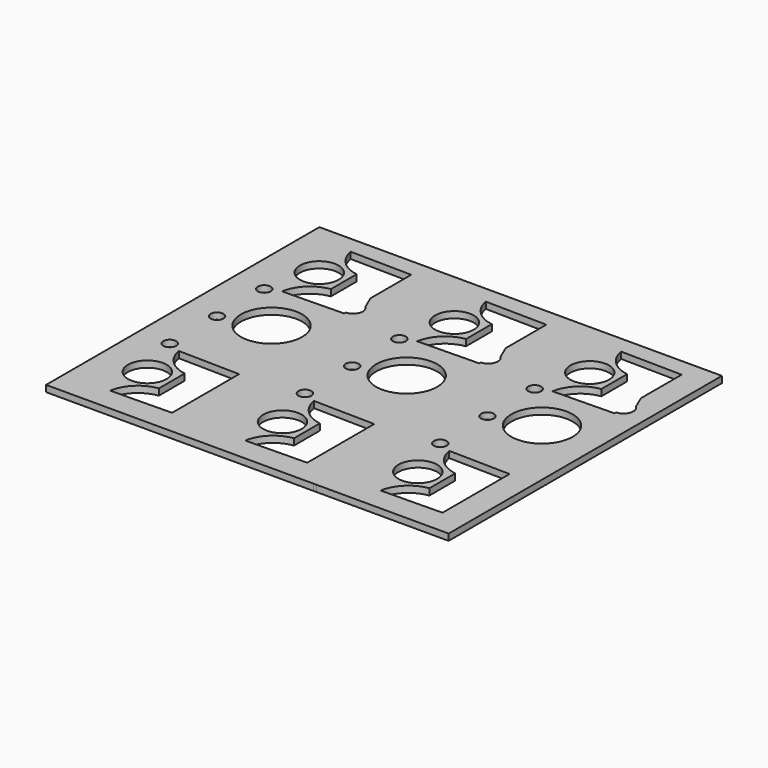
from build123d import *

# Parameters (mm, degrees)
F0_W     = 41
F0_H     = 106
F0_R     = 6
F0_R_2   = 2
F0_R_3   = 9.5
F0_W_2   = 0.927996
F1_DEPTH = 2


with BuildPart() as f1:
    # F0 (on Top) → F1 (new body)
    with BuildSketch(Plane.XY):
        with Locations((-42.758821, -4.311392)):
            Rectangle(F0_W, F0_H)
        with Locations((-48.35481, -36.657964)):
            Circle(F0_R, mode=Mode.SUBTRACT)
        with BuildLine():
            ThreePointArc((-40.758821, -31.657964), (-46.365975, -28.882496), (-49.258821, -23.334988))
            Line((-49.258821, -23.334988), (-30.258821, -23.692439))
            Line((-30.258821, -23.692439), (-30.258821, -49.692439))
            Line((-30.258821, -49.692439), (-49.258821, -49.98094))
            ThreePointArc((-49.258821, -49.98094), (-46.365975, -44.433432), (-40.758821, -41.657964))
            Line((-40.758821, -41.657964), (-40.758821, -31.657964))
        make_face(mode=Mode.SUBTRACT)
        with Locations((-53.414003, -21.625079)):
            Circle(F0_R_2, mode=Mode.SUBTRACT)
        with Locations((-53.414003, -3.311392)):
            Circle(F0_R_2, mode=Mode.SUBTRACT)
        with Locations((-40.008821, 1.088608)):
            Circle(F0_R_3, mode=Mode.SUBTRACT)
        with Locations((-53.414003, 15.002295)):
            Circle(F0_R_2, mode=Mode.SUBTRACT)
        with Locations((-48.35481, 30.03518)):
            Circle(F0_R, mode=Mode.SUBTRACT)
        with BuildLine():
            ThreePointArc((-40.758821, 35.03518), (-46.365975, 37.810648), (-49.258821, 43.358156))
            Line((-49.258821, 43.358156), (-30.258821, 43.069655))
            Line((-30.258821, 43.069655), (-30.258821, 27.304233))
            Line((-30.258821, 27.304233), (-28.396592, 22.957894))
            ThreePointArc((-28.396592, 22.957894), (-27.630572, 21.936268), (-27.358821, 20.688608))
            ThreePointArc((-27.358821, 20.688608), (-28.202435, 18.602943), (-30.258821, 17.690275))
            Line((-30.258821, 17.690275), (-30.258821, 17.069655))
            Line((-30.258821, 17.069655), (-49.258821, 16.712204))
            ThreePointArc((-49.258821, 16.712204), (-46.365975, 22.259712), (-40.758821, 25.03518))
            Line((-40.758821, 25.03518), (-40.758821, 35.03518))
        make_face(mode=Mode.SUBTRACT)
        with Locations((-21.794823, -4.311392)):
            Rectangle(F0_W_2, F0_H)
        with Locations((-0.830825, -4.311392)):
            Rectangle(F0_W, F0_H)
        with Locations((-6.426815, -36.657964)):
            Circle(F0_R, mode=Mode.SUBTRACT)
        with Locations((-11.486007, -21.625079)):
            Circle(F0_R_2, mode=Mode.SUBTRACT)
        with BuildLine():
            ThreePointArc((1.169175, -31.657964), (-4.437979, -28.882496), (-7.330825, -23.334988))
            Line((-7.330825, -23.334988), (11.669175, -23.692439))
            Line((11.669175, -23.692439), (11.669175, -49.692439))
            Line((11.669175, -49.692439), (-7.330825, -49.98094))
            ThreePointArc((-7.330825, -49.98094), (-4.437979, -44.433432), (1.169175, -41.657964))
            Line((1.169175, -41.657964), (1.169175, -31.657964))
        make_face(mode=Mode.SUBTRACT)
        with Locations((-11.486007, -3.311392)):
            Circle(F0_R_2, mode=Mode.SUBTRACT)
        with Locations((-11.486007, 15.002295)):
            Circle(F0_R_2, mode=Mode.SUBTRACT)
        with Locations((-6.426815, 30.03518)):
            Circle(F0_R, mode=Mode.SUBTRACT)
        with Locations((1.919175, 1.088608)):
            Circle(F0_R_3, mode=Mode.SUBTRACT)
        with BuildLine():
            ThreePointArc((1.169175, 35.03518), (-4.437979, 37.810648), (-7.330825, 43.358156))
            Line((-7.330825, 43.358156), (11.669175, 43.069655))
            Line((11.669175, 43.069655), (11.669175, 27.304233))
            Line((11.669175, 27.304233), (13.531403, 22.957894))
            ThreePointArc((13.531403, 22.957894), (14.297424, 21.936268), (14.569175, 20.688608))
            ThreePointArc((14.569175, 20.688608), (13.725561, 18.602943), (11.669175, 17.690275))
            Line((11.669175, 17.690275), (11.669175, 17.069655))
            Line((11.669175, 17.069655), (-7.330825, 16.712204))
            ThreePointArc((-7.330825, 16.712204), (-4.437979, 22.259712), (1.169175, 25.03518))
            Line((1.169175, 25.03518), (1.169175, 35.03518))
        make_face(mode=Mode.SUBTRACT)
        Polygon((20.669173, 48.688607), (19.669175, 48.688608), (19.669175, -57.311392), (20.669173, -57.311393), align=None)
        with Locations((41.169173, -4.311393)):
            Rectangle(F0_W, F0_H)
        with Locations((35.573184, -36.657965)):
            Circle(F0_R, mode=Mode.SUBTRACT)
        with BuildLine():
            ThreePointArc((43.169173, -31.657965), (37.562019, -28.882497), (34.669173, -23.33499))
            Line((34.669173, -23.33499), (53.669173, -23.692441))
            Line((53.669173, -23.692441), (53.669173, -49.692441))
            Line((53.669173, -49.692441), (34.669173, -49.980941))
            ThreePointArc((34.669173, -49.980941), (37.562019, -44.433434), (43.169173, -41.657965))
            Line((43.169173, -41.657965), (43.169173, -31.657965))
        make_face(mode=Mode.SUBTRACT)
        with Locations((30.513992, -21.62508)):
            Circle(F0_R_2, mode=Mode.SUBTRACT)
        with Locations((30.513992, -3.311393)):
            Circle(F0_R_2, mode=Mode.SUBTRACT)
        with Locations((43.919173, 1.088607)):
            Circle(F0_R_3, mode=Mode.SUBTRACT)
        with Locations((30.513992, 15.002294)):
            Circle(F0_R_2, mode=Mode.SUBTRACT)
        with Locations((35.573184, 30.035179)):
            Circle(F0_R, mode=Mode.SUBTRACT)
        with BuildLine():
            ThreePointArc((43.169173, 35.035179), (37.562019, 37.810647), (34.669173, 43.358155))
            Line((34.669173, 43.358155), (53.669173, 43.069654))
            Line((53.669173, 43.069654), (53.669173, 27.304232))
            Line((53.669173, 27.304232), (55.531402, 22.957893))
            ThreePointArc((55.531402, 22.957893), (56.297423, 21.936267), (56.569173, 20.688607))
            ThreePointArc((56.569173, 20.688607), (55.725559, 18.602941), (53.669173, 17.690274))
            Line((53.669173, 17.690274), (53.669173, 17.069654))
            Line((53.669173, 17.069654), (34.669173, 16.712203))
            ThreePointArc((34.669173, 16.712203), (37.562019, 22.259711), (43.169173, 25.035179))
            Line((43.169173, 25.035179), (43.169173, 35.035179))
        make_face(mode=Mode.SUBTRACT)
    extrude(amount=F1_DEPTH)


solid = f1.part
